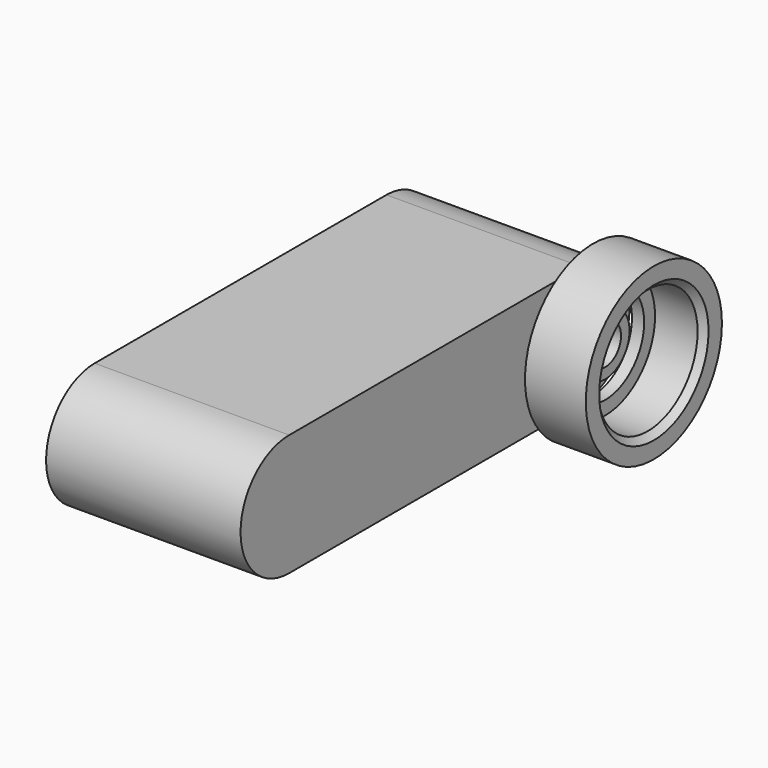
from build123d import *

# Parameters (mm, degrees)
F1_DEPTH      = 8
F1_DEPTH_BACK = 8
F2_R          = 2.5
F3_DEPTH      = 10
F3_DEPTH_BACK = 10
F4_R          = 1.625
F5_DEPTH      = 10
F5_DEPTH_BACK = 10
F6_R          = 5.125
F6_R_2        = 4
F7_DEPTH      = 1
F8_R          = 7
F8_R_2        = 5.125
F9_DEPTH      = 4
F9_DEPTH_BACK = 1
F10_SIZE      = 0.5


with BuildPart() as f1:
    # F0 (on Right) → F1 (new body, two sides)
    with BuildSketch(Plane.YZ) as f1_sk:
        with BuildLine():
            ThreePointArc((-15.0436673748, 5), (-20.0438580552, -0.0440504081), (-14.9563326252, -5))
            Line((-14.9563326252, -5), (15.0436673748, -5))
            ThreePointArc((15.0436673748, -5), (19.9565233055, 0.0432876722), (14.9563326252, 5))
            Line((14.9563326252, 5), (-15.0436673748, 5))
        make_face()
    extrude(amount=F1_DEPTH)
    extrude(f1_sk.sketch, amount=-F1_DEPTH_BACK)

    # F2 (on Right) → F3 (join, two sides)
    with BuildSketch(Plane.YZ) as f3_sk:
        with Locations((14.9563326252, -0.0003813679)):
            Circle(F2_R)
    extrude(amount=F3_DEPTH)
    extrude(f3_sk.sketch, amount=-F3_DEPTH_BACK)

    # F4 (on Right) → F5 (cut, two sides)
    with BuildSketch(Plane.YZ) as f5_sk:
        with Locations((14.9563326252, -0.0003813679)):
            Circle(F4_R)
    extrude(amount=-F5_DEPTH, mode=Mode.SUBTRACT)
    extrude(f5_sk.sketch, amount=F5_DEPTH_BACK, mode=Mode.SUBTRACT)


with BuildPart() as f7:
    # F6 (on face) → F7 (new body)
    with BuildSketch(Plane.YZ.offset(10)):
        with Locations((14.9563326252, -0.0003813679)):
            Circle(F6_R)
        with Locations((14.9563326252, -0.0003813679)):
            Circle(F6_R_2, mode=Mode.SUBTRACT)
    extrude(amount=-F7_DEPTH)

    # F8 (on face) → F9 (join, two sides)
    with BuildSketch(Plane.YZ.offset(10)) as f9_sk:
        with Locations((14.9563326252, -0.0003813679)):
            Circle(F8_R)
        with Locations((14.9563326252, -0.0003813679)):
            Circle(F8_R_2, mode=Mode.SUBTRACT)
    extrude(amount=F9_DEPTH)
    extrude(f9_sk.sketch, amount=-F9_DEPTH_BACK)

    # F10
    f10_edges = [f7.edges().sort_by_distance(p)[0] for p in [
        (14, 9.831333, -0.000381),
    ]]
    chamfer(f10_edges, length=F10_SIZE)


solid = Compound([f1.part, f7.part])
